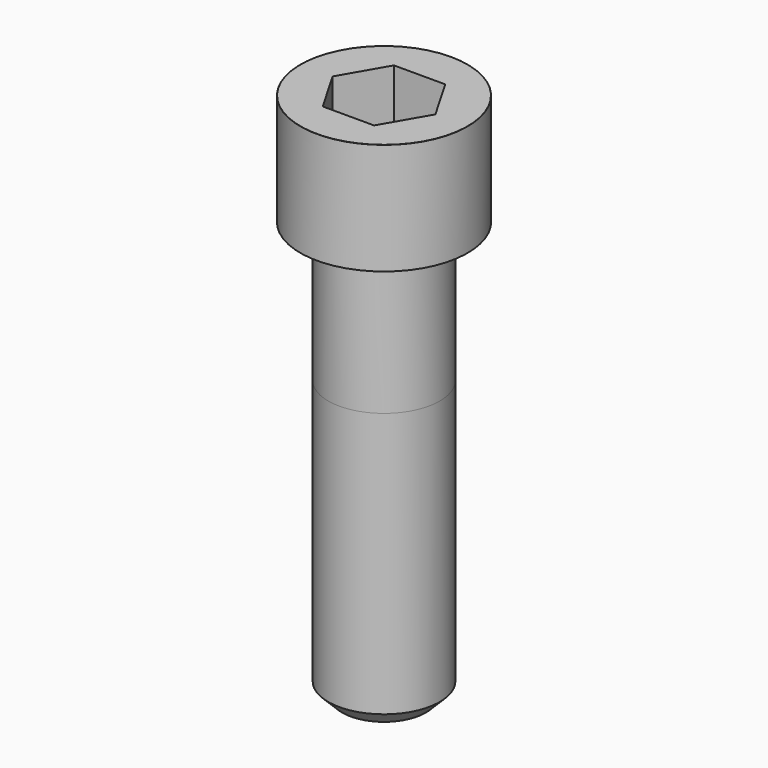
from build123d import *

# Parameters (mm, degrees)
POCKET_DEPTH = 19.15


with BuildPart() as part:
    # Sketch → Revolve (revolve)
    with BuildSketch(Plane.YZ):
        with BuildLine():
            Line((11.999, 0), (18, 0))
            Line((18, 0), (18, 23.97229))
            ThreePointArc((18, 23.97229), (17.991884, 23.991884), (17.97229, 24))
            Line((17.97229, 24), (0, 24))
            Line((0, -90), (0, 24))
            Line((9, -90), (0, -90))
            Line((12, -87), (9, -90))
            Line((12, -30), (12, -87))
            Line((11.999, 0), (12, -30))
        make_face()
    revolve(axis=Axis((0, 0, 0), (0, 0, 1)))

    # Sketch001 → Pocket (cut)
    with BuildSketch(Plane.XY.offset(24)):
        Polygon((11.056258, 0), (5.528129, 9.575), (-5.528129, 9.575), (-11.056258, 0), (-5.528129, -9.575), (5.528129, -9.575), align=None)
    extrude(amount=-POCKET_DEPTH, mode=Mode.SUBTRACT)


solid = part.part
